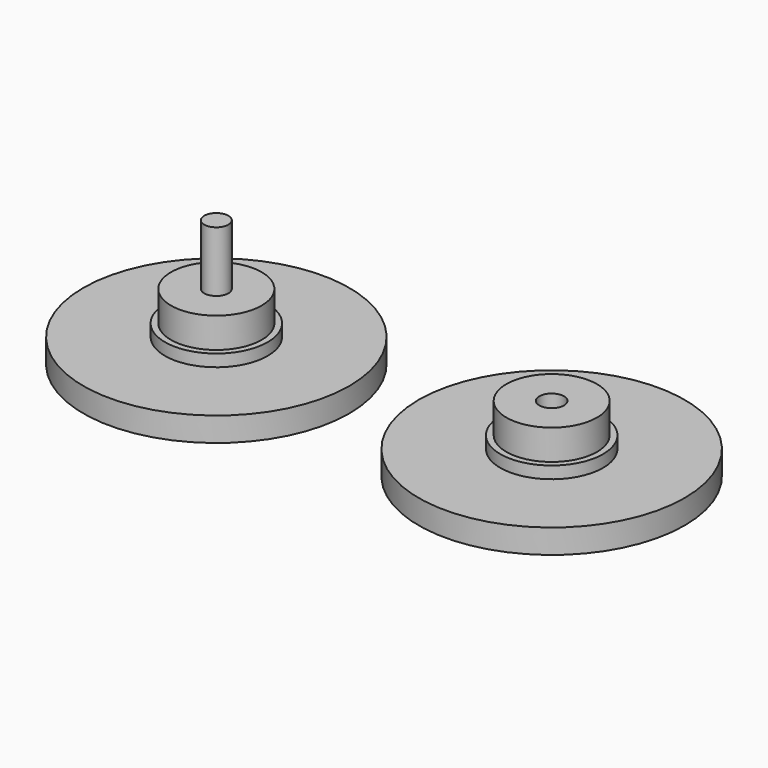
from build123d import *

# Parameters (mm, degrees)
F0_R     = 3.75
F1_DEPTH = 5.5
F0_R_2   = 4.25
F2_DEPTH = 3
F0_R_3   = 11
F3_DEPTH = 2
F5_R     = 1
F6_DEPTH = 5
F7_R     = 1.025
F8_DEPTH = 7.7


with BuildPart() as f1:
    # F0 (on Top) → F1 (new body)
    with BuildSketch(Plane.XY):
        Circle(F0_R)
    extrude(amount=F1_DEPTH)

    # F0 (on Top) → F2 (join)
    with BuildSketch(Plane.XY):
        Circle(F0_R_2)
        Circle(F0_R, mode=Mode.SUBTRACT)
    extrude(amount=F2_DEPTH)

    # F0 (on Top) → F3 (join)
    with BuildSketch(Plane.XY):
        Circle(F0_R_3)
        Circle(F0_R_2, mode=Mode.SUBTRACT)
    extrude(amount=F3_DEPTH)


with BuildPart() as f4_1:
    # F4: copy of F1
    add(f1.part.moved(Location((26.7, 1.3, 0))))

    # F7 (on face) → F8 (cut)
    with BuildSketch(Plane.XY.offset(5.5)):
        with Locations((26.7, 1.3)):
            Circle(F7_R)
    extrude(amount=-F8_DEPTH, mode=Mode.SUBTRACT)


with BuildPart() as f1_1:
    add(f1.part)

    # F5 (on face) → F6 (join)
    with BuildSketch(Plane.XY.offset(5.5)):
        Circle(F5_R)
    extrude(amount=F6_DEPTH)


solid = Compound([f4_1.part, f1_1.part])
